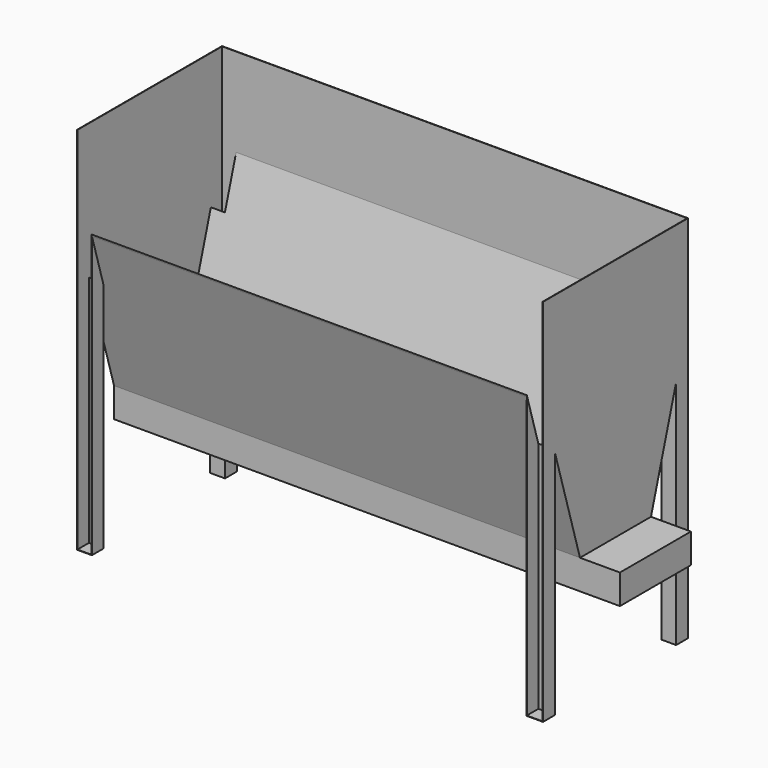
from build123d import *

# Parameters (mm, degrees)
F1_DEPTH = 3200.4
F2_W     = 113.9400005341
F2_H     = 101.6
F2_W_2   = 101.6
F4_W     = 609.6
F4_H     = 203.2
F5_DEPTH = 274.32
F6_T     = -2.54


with BuildPart() as f1:
    # F0 (on Right) → F1 (new body)
    with BuildSketch(Plane.YZ):
        Polygon((-304.8, 863.6), (-304.8, 660.4), (0, 660.4), (304.8, 660.4), (304.8, 863.6), (622.3, 1930.4), (622.3, 2540), (0, 2540), (-622.3, 2540), (-622.3, 1930.4), align=None)
    extrude(amount=F1_DEPTH)

    # F2 (on Top) → F3 (join, up to the next surface of F1)
    with BuildSketch(Plane.XY):
        with Locations((3143.429999733, -571.5)):
            Rectangle(F2_W, F2_H)
        with Locations((3149.6, 571.5)):
            Rectangle(F2_W_2, F2_H)
        with Locations((50.8, 571.5)):
            Rectangle(F2_W_2, F2_H)
        with Locations((50.8, -571.5)):
            Rectangle(F2_W_2, F2_H)
    extrude(until=Until.NEXT)

    # F4 (on face) → F5 (join)
    with BuildSketch(Plane.YZ.offset(3200.4)):
        with Locations((0, 762)):
            Rectangle(F4_W, F4_H)
    extrude(amount=F5_DEPTH)

    # F6
    f6_openings = [f1.faces().sort_by_distance(p)[0] for p in [
        (1600.2, 0, 2540),
        (1615.219326, -622.3, 2011.959545),
    ]]
    offset(amount=F6_T, openings=f6_openings, kind=Kind.INTERSECTION)


solid = f1.part
